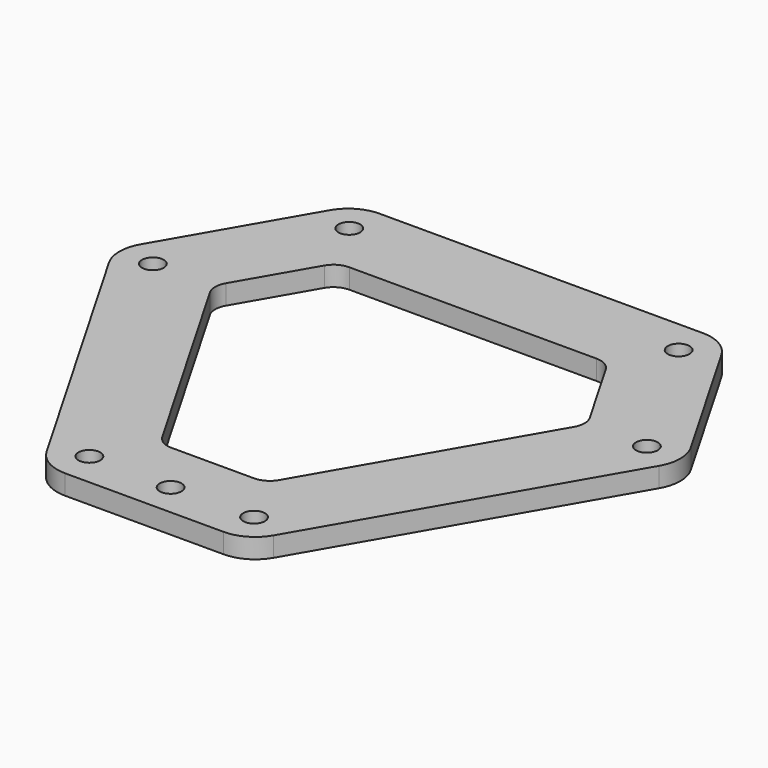
from build123d import *

# Parameters (mm, degrees)
F0_R     = 1.65
F1_DEPTH = 3


with BuildPart() as f1:
    # F0 (on Top) → F1 (new body)
    with BuildSketch(Plane.XY):
        with BuildLine():
            ThreePointArc((-24.535898, 34.063666), (-27.535898, 33.259818), (-29.732051, 31.063666))
            Line((-29.732051, 31.063666), (-41.767949, 10.216878))
            ThreePointArc((-41.767949, 10.216878), (-42.571797, 7.216878), (-41.767949, 4.216878))
            Line((-41.767949, 4.216878), (-17.232051, -38.280544))
            ThreePointArc((-17.232051, -38.280544), (-15.035898, -40.476697), (-12.035898, -41.280544))
            Line((-12.035898, -41.280544), (12.035898, -41.280544))
            ThreePointArc((12.035898, -41.280544), (15.035898, -40.476697), (17.232051, -38.280544))
            Line((17.232051, -38.280544), (41.767949, 4.216878))
            ThreePointArc((41.767949, 4.216878), (42.571797, 7.216878), (41.767949, 10.216878))
            Line((41.767949, 10.216878), (29.732051, 31.063666))
            ThreePointArc((29.732051, 31.063666), (27.535898, 33.259818), (24.535898, 34.063666))
            Line((24.535898, 34.063666), (-24.535898, 34.063666))
        make_face()
        with Locations((-12.5, -36.084392)):
            Circle(F0_R, mode=Mode.SUBTRACT)
        with Locations((0, -36.290163)):
            Circle(F0_R, mode=Mode.SUBTRACT)
        with Locations((12.5, -36.084392)):
            Circle(F0_R, mode=Mode.SUBTRACT)
        with BuildLine():
            Line((6.267949, -28.290163), (-6.267949, -28.290163))
            ThreePointArc((-6.267949, -28.290163), (-7.767949, -27.888239), (-8.866025, -26.790163))
            Line((-8.866025, -26.790163), (-27.633975, 5.716878))
            ThreePointArc((-27.633975, 5.716878), (-28.035898, 7.216878), (-27.633975, 8.716878))
            Line((-27.633975, 8.716878), (-21.366025, 19.573285))
            ThreePointArc((-21.366025, 19.573285), (-20.267949, 20.671361), (-18.767949, 21.073285))
            Line((-18.767949, 21.073285), (18.767949, 21.073285))
            ThreePointArc((18.767949, 21.073285), (20.267949, 20.671361), (21.366025, 19.573285))
            Line((21.366025, 19.573285), (27.633975, 8.716878))
            ThreePointArc((27.633975, 8.716878), (28.035898, 7.216878), (27.633975, 5.716878))
            Line((27.633975, 5.716878), (8.866025, -26.790163))
            ThreePointArc((8.866025, -26.790163), (7.767949, -27.888239), (6.267949, -28.290163))
        make_face(mode=Mode.SUBTRACT)
        with Locations((-37.5, 7.216878)):
            Circle(F0_R, mode=Mode.SUBTRACT)
        with Locations((-25, 28.867513)):
            Circle(F0_R, mode=Mode.SUBTRACT)
        with Locations((37.5, 7.216878)):
            Circle(F0_R, mode=Mode.SUBTRACT)
        with Locations((25, 28.867513)):
            Circle(F0_R, mode=Mode.SUBTRACT)
    extrude(amount=F1_DEPTH)


solid = f1.part
